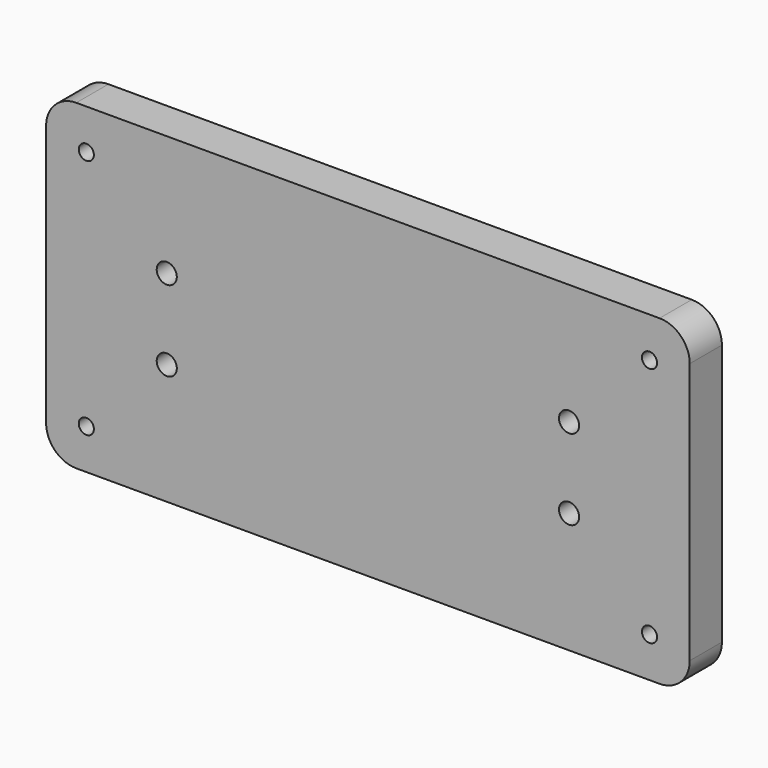
from build123d import *

# Parameters (mm, degrees)
F0_W     = 203.2
F0_H     = 101.6
F1_DEPTH = 12.7
F2_R     = 9.525
F4_D     = 4.7752
F6_D     = 6.35


with BuildPart() as f1:
    # F0 (on Front) → F1 (new body)
    with BuildSketch(Plane.XZ):
        with Locations((101.6, 50.8)):
            Rectangle(F0_W, F0_H)
    extrude(amount=F1_DEPTH)

    # F2
    f2_edges = [f1.edges().sort_by_distance(p)[0] for p in [
        (0, -6.35, 101.6),
        (0, -6.35, 0),
        (203.2, -6.35, 0),
        (203.2, -6.35, 101.6),
    ]]
    fillet(f2_edges, radius=F2_R)

    # F4 (through all)
    with Locations(Plane.XZ.offset(12.7)):
        with Locations((12.7, 12.7), (12.7, 88.9), (190.5, 88.9), (190.5, 12.7)):
            Hole(F4_D / 2)

    # F6 (through all)
    with Locations(Plane.XZ.offset(12.7)):
        with Locations((38.1, 63.5), (38.1, 38.1), (165.1, 38.1), (165.1, 63.5)):
            Hole(F6_D / 2)


solid = f1.part
